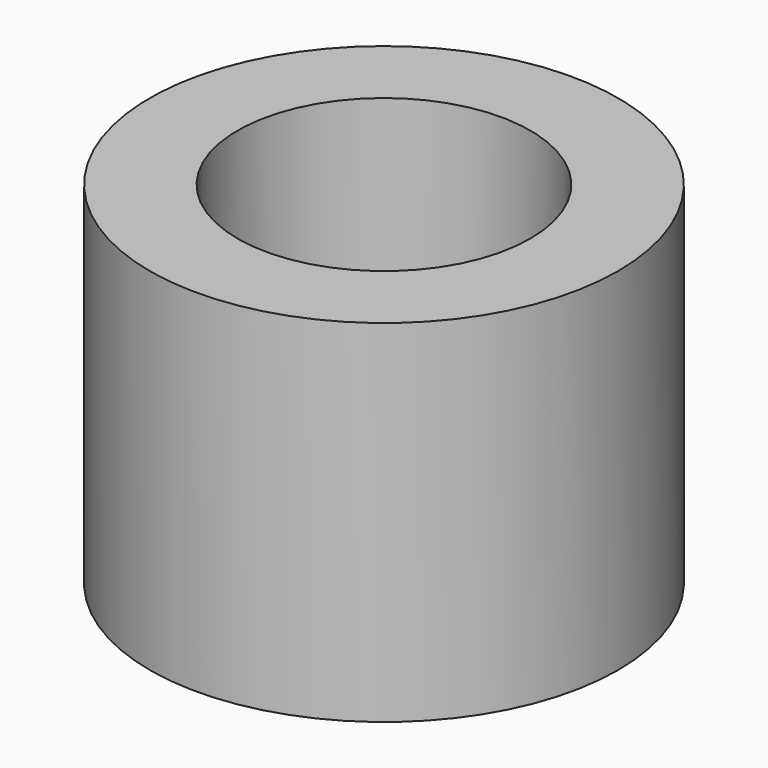
from build123d import *

# Parameters (mm, degrees)
F0_R     = 2
F0_R_2   = 1.25
F1_DEPTH = 3
F0_R_3   = 0.5
F2_DEPTH = 1.5
F3_DEPTH = 25


with BuildPart() as f1:
    # F0 (on Top) → F1 (new body)
    with BuildSketch(Plane.XY):
        Circle(F0_R)
        Circle(F0_R_2, mode=Mode.SUBTRACT)
    extrude(amount=F1_DEPTH)

    # F0 (on Top) → F2 (join)
    with BuildSketch(Plane.XY):
        Circle(F0_R_2)
        Circle(F0_R_3, mode=Mode.SUBTRACT)
        Circle(F0_R_3)
    extrude(amount=F2_DEPTH)

    # F0 (on Top) → F3 (cut)
    with BuildSketch(Plane.XY):
        Circle(F0_R_3)
    extrude(amount=F3_DEPTH, mode=Mode.SUBTRACT)


solid = f1.part
